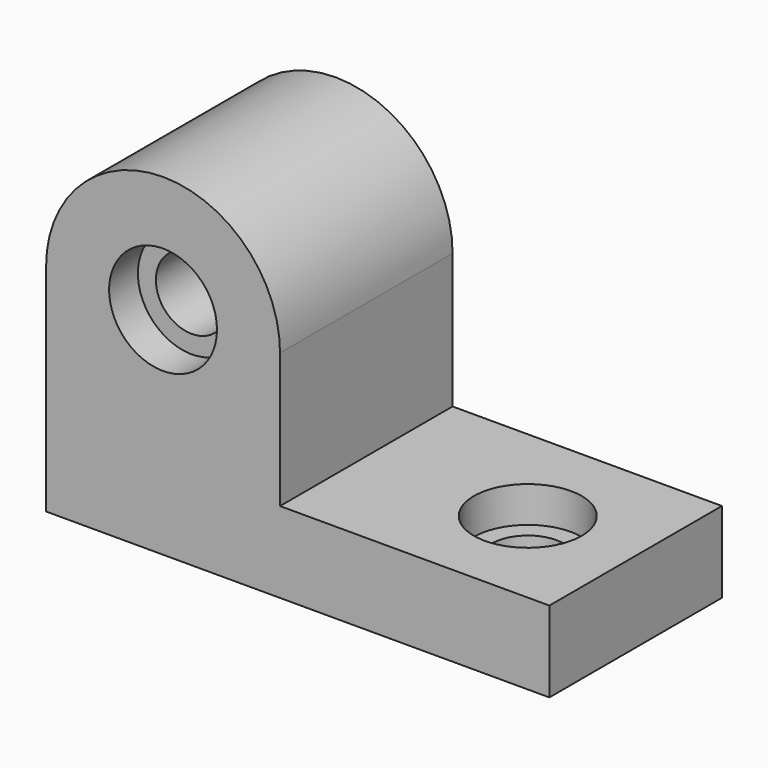
from build123d import *

# Parameters (mm, degrees)
F1_DEPTH  = 76.2
F2_R      = 19.05
F3_DEPTH  = 12.7
F4_R      = 12.7
F5_DEPTH  = 12.7
F6_R      = 12.7
F7_DEPTH  = 63.5
F8_R      = 19.05
F9_DEPTH  = 12.7
F10_R     = 12.7
F11_DEPTH = 15.875


with BuildPart() as f1:
    # F0 (on Front) → F1 (new body)
    with BuildSketch(Plane.XZ):
        with BuildLine():
            Line((0, 76.2), (0, 0))
            Line((0, 0), (177.8, 0))
            Line((177.8, 0), (177.8, 28.575))
            Line((177.8, 28.575), (82.651526, 28.575))
            Line((82.651526, 28.575), (82.651526, 76.2))
            ThreePointArc((82.651526, 76.2), (41.325763, 117.525763), (0, 76.2))
        make_face()
    extrude(amount=F1_DEPTH)

    # F2 (on face) → F3 (cut)
    with BuildSketch(Plane.XZ.offset(76.2)):
        with Locations((41.325763, 76.2)):
            Circle(F2_R)
    extrude(amount=-F3_DEPTH, mode=Mode.SUBTRACT)

    # F4 (on face) → F5 (cut, through all)
    with BuildSketch(Plane.XZ.offset(76.2)):
        with Locations((41.325763, 76.2)):
            Circle(F4_R)
    extrude(amount=-F5_DEPTH, mode=Mode.SUBTRACT)

    # F6 (on face) → F7 (cut, through all)
    with BuildSketch(Plane.XZ.offset(63.5)):
        with Locations((41.325763, 76.2)):
            Circle(F6_R)
    extrude(amount=-F7_DEPTH, mode=Mode.SUBTRACT)

    # F8 (on face) → F9 (cut)
    with BuildSketch(Plane.XY.offset(28.575)):
        with Locations((139.7, -38.1)):
            Circle(F8_R)
    extrude(amount=-F9_DEPTH, mode=Mode.SUBTRACT)

    # F10 (on face) → F11 (cut, through all)
    with BuildSketch(Plane.XY.offset(15.875)):
        with Locations((139.7, -38.1)):
            Circle(F10_R)
    extrude(amount=-F11_DEPTH, mode=Mode.SUBTRACT)


solid = f1.part
